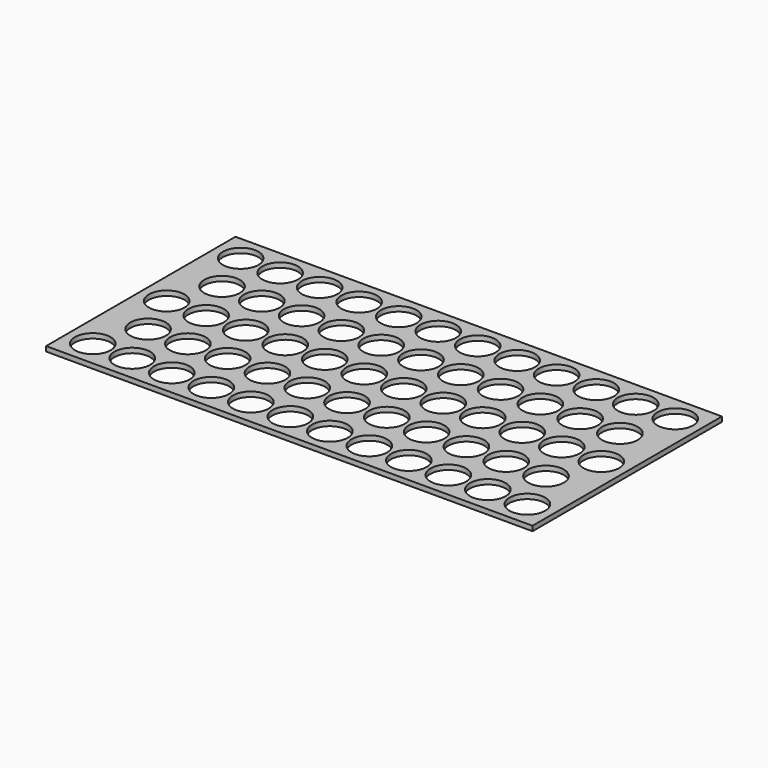
from build123d import *

# Parameters (mm, degrees)
F0_W     = 300
F0_H     = 146
F1_DEPTH = 3
F2_R     = 11
F3_DEPTH = 3.001


with BuildPart() as f1:
    # F0 (on Top) → F1 (new body)
    with BuildSketch(Plane.XY):
        with Locations((150, 73)):
            Rectangle(F0_W, F0_H)
    extrude(amount=F1_DEPTH)

    # F2 (on face) → F3 (cut, through all)
    with BuildSketch(Plane.XY.offset(3)):
        with Locations((16, 130)):
            Circle(F2_R)
        with Locations((40.363636, 130)):
            Circle(F2_R)
        with Locations((64.727273, 130)):
            Circle(F2_R)
        with Locations((89.090909, 130)):
            Circle(F2_R)
        with Locations((113.454545, 130)):
            Circle(F2_R)
        with Locations((137.818182, 130)):
            Circle(F2_R)
        with Locations((162.181818, 130)):
            Circle(F2_R)
        with Locations((186.545455, 130)):
            Circle(F2_R)
        with Locations((210.909091, 130)):
            Circle(F2_R)
        with Locations((235.272727, 130)):
            Circle(F2_R)
        with Locations((259.636364, 130)):
            Circle(F2_R)
        with Locations((284, 130)):
            Circle(F2_R)
        with Locations((16, 73)):
            Circle(F2_R)
        with Locations((40.363636, 73)):
            Circle(F2_R)
        with Locations((64.727273, 73)):
            Circle(F2_R)
        with Locations((89.090909, 73)):
            Circle(F2_R)
        with Locations((113.454545, 73)):
            Circle(F2_R)
        with Locations((137.818182, 73)):
            Circle(F2_R)
        with Locations((162.181818, 73)):
            Circle(F2_R)
        with Locations((186.545455, 73)):
            Circle(F2_R)
        with Locations((210.909091, 73)):
            Circle(F2_R)
        with Locations((235.272727, 73)):
            Circle(F2_R)
        with Locations((259.636364, 73)):
            Circle(F2_R)
        with Locations((284, 73)):
            Circle(F2_R)
        with Locations((16, 16)):
            Circle(F2_R)
        with Locations((40.363636, 16)):
            Circle(F2_R)
        with Locations((64.727273, 16)):
            Circle(F2_R)
        with Locations((89.090909, 16)):
            Circle(F2_R)
        with Locations((113.454545, 16)):
            Circle(F2_R)
        with Locations((137.818182, 16)):
            Circle(F2_R)
        with Locations((162.181818, 16)):
            Circle(F2_R)
        with Locations((186.545455, 16)):
            Circle(F2_R)
        with Locations((210.909091, 16)):
            Circle(F2_R)
        with Locations((235.272727, 16)):
            Circle(F2_R)
        with Locations((259.636364, 16)):
            Circle(F2_R)
        with Locations((284, 16)):
            Circle(F2_R)
        with Locations((27.3, 101.5)):
            Circle(F2_R)
        with Locations((27.3, 44.5)):
            Circle(F2_R)
        with Locations((51.84, 101.5)):
            Circle(F2_R)
        with Locations((51.84, 44.5)):
            Circle(F2_R)
        with Locations((76.38, 101.5)):
            Circle(F2_R)
        with Locations((76.38, 44.5)):
            Circle(F2_R)
        with Locations((100.92, 101.5)):
            Circle(F2_R)
        with Locations((100.92, 44.5)):
            Circle(F2_R)
        with Locations((125.46, 101.5)):
            Circle(F2_R)
        with Locations((125.46, 44.5)):
            Circle(F2_R)
        with Locations((150, 101.5)):
            Circle(F2_R)
        with Locations((150, 44.5)):
            Circle(F2_R)
        with Locations((174.54, 101.5)):
            Circle(F2_R)
        with Locations((174.54, 44.5)):
            Circle(F2_R)
        with Locations((199.08, 101.5)):
            Circle(F2_R)
        with Locations((199.08, 44.5)):
            Circle(F2_R)
        with Locations((223.62, 101.5)):
            Circle(F2_R)
        with Locations((223.62, 44.5)):
            Circle(F2_R)
        with Locations((248.16, 101.5)):
            Circle(F2_R)
        with Locations((248.16, 44.5)):
            Circle(F2_R)
        with Locations((272.7, 101.5)):
            Circle(F2_R)
        with Locations((272.7, 44.5)):
            Circle(F2_R)
    extrude(amount=-F3_DEPTH, mode=Mode.SUBTRACT)


solid = f1.part
